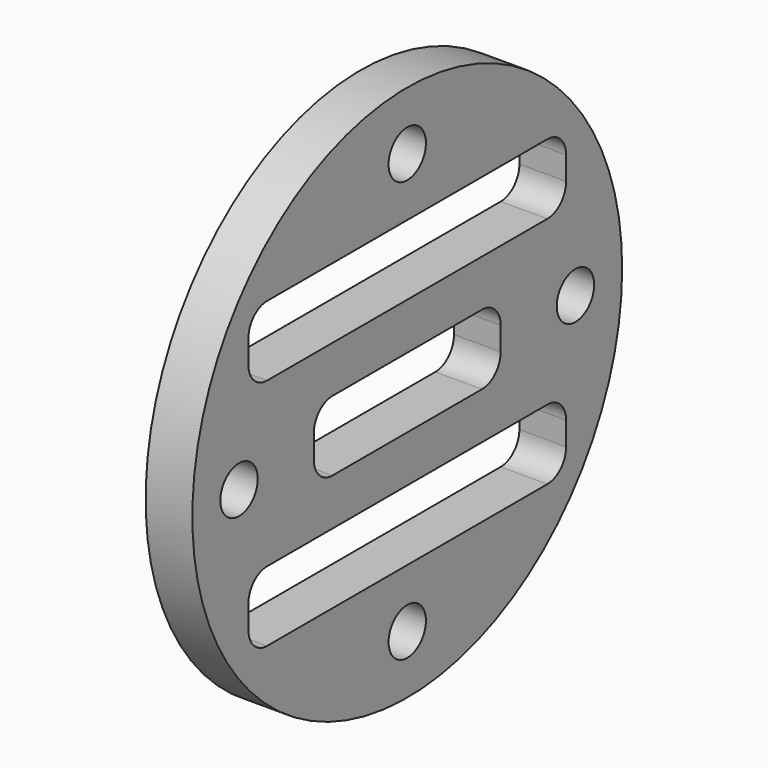
from build123d import *

# Parameters (mm, degrees)
F0_R     = 11.5
F0_R_2   = 1
F0_W     = 17
F0_H     = 3
F0_W_2   = 10
F1_DEPTH = 2
F2_R     = 1


with BuildPart() as f1:
    # F0 (on Right) → F1 (new body)
    with BuildSketch(Plane.YZ):
        Circle(F0_R)
        with Locations((0, -9)):
            Circle(F0_R_2, mode=Mode.SUBTRACT)
        with Locations((0, -5)):
            Rectangle(F0_W, F0_H, mode=Mode.SUBTRACT)
        with Locations((-9, 0)):
            Circle(F0_R_2, mode=Mode.SUBTRACT)
        Rectangle(F0_W_2, F0_H, mode=Mode.SUBTRACT)
        with Locations((0, 5)):
            Rectangle(F0_W, F0_H, mode=Mode.SUBTRACT)
        with Locations((9, 0)):
            Circle(F0_R_2, mode=Mode.SUBTRACT)
        with Locations((0, 9)):
            Circle(F0_R_2, mode=Mode.SUBTRACT)
    extrude(amount=F1_DEPTH)

    # F2
    f2_edges = [f1.edges().sort_by_distance(p)[0] for p in [
        (1, -8.5, 6.5),
        (1, -8.5, 3.5),
        (1, 8.5, 6.5),
        (1, 8.5, 3.5),
        (1, 5, -1.5),
        (1, -5, -1.5),
        (1, -8.5, -6.5),
        (1, 8.5, -6.5),
        (1, -5, 1.5),
        (1, -8.5, -3.5),
        (1, 8.5, -3.5),
        (1, 5, 1.5),
    ]]
    fillet(f2_edges, radius=F2_R)


solid = f1.part
